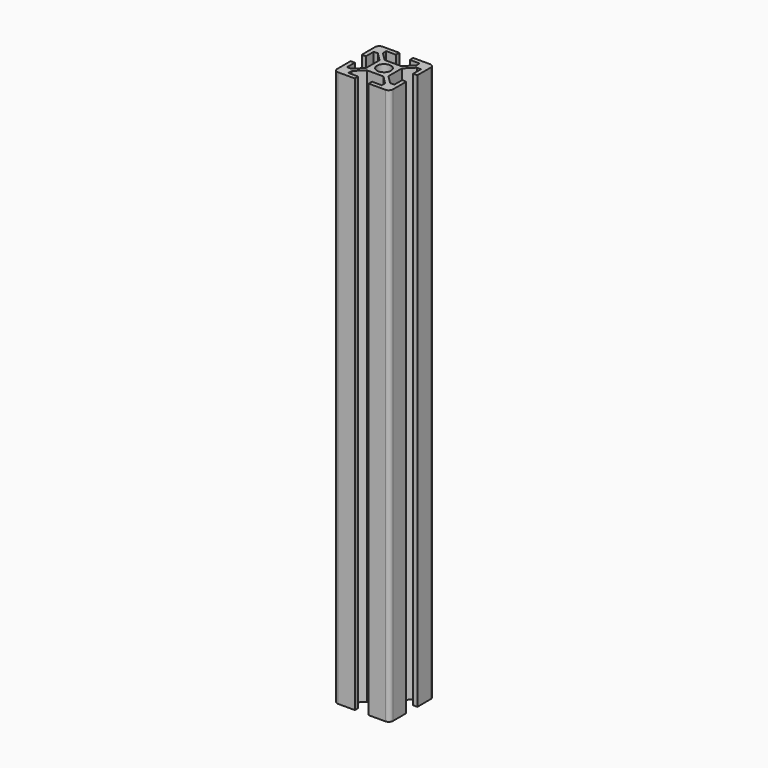
from build123d import *

# Parameters (mm, degrees)
F0_R     = 5
F1_DEPTH = 400


with BuildPart() as f1:
    # F0 (on Top) → F1 (new body)
    with BuildSketch(Plane.XY):
        with BuildLine():
            ThreePointArc((20, 17), (19.12132, 19.12132), (17, 20))
            Line((17, 20), (5, 20))
            Line((5, 20), (5, 17))
            Line((5, 17), (12, 17))
            Line((12, 17), (12, 14))
            Line((12, 14), (6, 8))
            Line((6, 8), (0, 8))
            Line((0, 8), (-6, 8))
            Line((-6, 8), (-12, 14))
            Line((-12, 14), (-12, 17))
            Line((-12, 17), (-5, 17))
            Line((-5, 17), (-5, 20))
            Line((-5, 20), (-17, 20))
            ThreePointArc((-17, 20), (-19.12132, 19.12132), (-20, 17))
            Line((-20, 17), (-20, 5))
            Line((-20, 5), (-17, 5))
            Line((-17, 5), (-17, 12))
            Line((-17, 12), (-14, 12))
            Line((-14, 12), (-8, 6))
            Line((-8, 6), (-8, 0))
            Line((-8, 0), (-8, -6))
            Line((-8, -6), (-14, -12))
            Line((-14, -12), (-17, -12))
            Line((-17, -12), (-17, -5))
            Line((-17, -5), (-20, -5))
            Line((-20, -5), (-20, -17))
            ThreePointArc((-20, -17), (-19.12132, -19.12132), (-17, -20))
            Line((-17, -20), (-5, -20))
            Line((-5, -20), (-5, -17))
            Line((-5, -17), (-12, -17))
            Line((-12, -17), (-12, -14))
            Line((-12, -14), (-6, -8))
            Line((-6, -8), (0, -8))
            Line((0, -8), (6, -8))
            Line((6, -8), (12, -14))
            Line((12, -14), (12, -17))
            Line((12, -17), (5, -17))
            Line((5, -17), (5, -20))
            Line((5, -20), (17, -20))
            ThreePointArc((17, -20), (19.12132, -19.12132), (20, -17))
            Line((20, -17), (20, -5))
            Line((20, -5), (17, -5))
            Line((17, -5), (17, -12))
            Line((17, -12), (14, -12))
            Line((14, -12), (8, -6))
            Line((8, -6), (8, 0))
            Line((8, 0), (8, 6))
            Line((8, 6), (14, 12))
            Line((14, 12), (17, 12))
            Line((17, 12), (17, 5))
            Line((17, 5), (20, 5))
            Line((20, 5), (20, 17))
        make_face()
        Circle(F0_R, mode=Mode.SUBTRACT)
    extrude(amount=F1_DEPTH)


solid = f1.part
